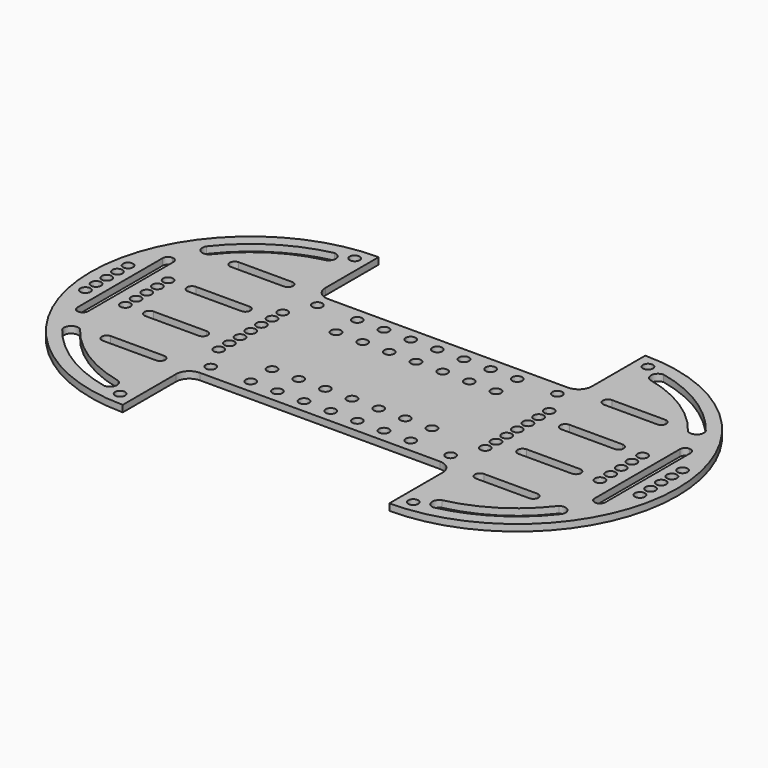
from build123d import *

# Parameters (mm, degrees)
F0_R     = 2.38125
F1_DEPTH = 3.175


with BuildPart() as f1:
    # F0 (on Top) → F1 (new body)
    with BuildSketch(Plane.XY):
        with BuildLine():
            Line((57.15, 38.1), (-57.15, 38.1))
            ThreePointArc((-57.15, 38.1), (-61.640128, 39.959872), (-63.5, 44.45))
            Line((-63.5, 44.45), (-63.5, 76.2))
            ThreePointArc((-63.5, 76.2), (-139.7, 0), (-63.5, -76.2))
            Line((-63.5, -76.2), (-63.5, -44.45))
            ThreePointArc((-63.5, -44.45), (-61.640128, -39.959872), (-57.15, -38.1))
            Line((-57.15, -38.1), (57.15, -38.1))
            ThreePointArc((57.15, -38.1), (61.640128, -39.959872), (63.5, -44.45))
            Line((63.5, -44.45), (63.5, -76.2))
            ThreePointArc((63.5, -76.2), (139.7, 0), (63.5, 76.2))
            Line((63.5, 76.2), (63.5, 44.45))
            ThreePointArc((63.5, 44.45), (61.640128, 39.959872), (57.15, 38.1))
        make_face()
        with BuildLine():
            ThreePointArc((-77.258712, -61.991514), (-75.139815, -65.751461), (-78.444508, -68.527416))
            ThreePointArc((-78.444508, -68.527416), (-100.955745, -59.299344), (-118.960174, -42.936164))
            ThreePointArc((-118.960174, -42.936164), (-118.331347, -38.677636), (-114.032447, -38.454151))
            ThreePointArc((-114.032447, -38.454151), (-97.732151, -53.482799), (-77.258712, -61.991514))
        make_face(mode=Mode.SUBTRACT)
        with Locations((-69.85, -69.85)):
            Circle(F0_R, mode=Mode.SUBTRACT)
        with BuildLine():
            Line((-101.6, -35.71875), (-76.2, -35.71875))
            ThreePointArc((-76.2, -35.71875), (-73.81875, -38.1), (-76.2, -40.48125))
            Line((-76.2, -40.48125), (-101.6, -40.48125))
            ThreePointArc((-101.6, -40.48125), (-103.98125, -38.1), (-101.6, -35.71875))
        make_face(mode=Mode.SUBTRACT)
        with Locations((-132.08, -12.7)):
            Circle(F0_R, mode=Mode.SUBTRACT)
        with Locations((-113.03, -12.7)):
            Circle(F0_R, mode=Mode.SUBTRACT)
        with Locations((-132.08, -6.35)):
            Circle(F0_R, mode=Mode.SUBTRACT)
        with Locations((-113.03, -6.35)):
            Circle(F0_R, mode=Mode.SUBTRACT)
        with BuildLine():
            ThreePointArc((-76.2, -10.31875), (-73.81875, -12.7), (-76.2, -15.08125))
            Line((-76.2, -15.08125), (-101.6, -15.08125))
            ThreePointArc((-101.6, -15.08125), (-103.98125, -12.7), (-101.6, -10.31875))
            Line((-101.6, -10.31875), (-76.2, -10.31875))
        make_face(mode=Mode.SUBTRACT)
        with Locations((-57.15, -31.75)):
            Circle(F0_R, mode=Mode.SUBTRACT)
        with Locations((-38.1, -31.75)):
            Circle(F0_R, mode=Mode.SUBTRACT)
        with Locations((-25.4, -31.75)):
            Circle(F0_R, mode=Mode.SUBTRACT)
        with Locations((-12.7, -31.75)):
            Circle(F0_R, mode=Mode.SUBTRACT)
        with Locations((-63.5, -19.05)):
            Circle(F0_R, mode=Mode.SUBTRACT)
        with Locations((-63.5, -12.7)):
            Circle(F0_R, mode=Mode.SUBTRACT)
        with Locations((-38.1, -19.05)):
            Circle(F0_R, mode=Mode.SUBTRACT)
        with Locations((-63.5, -6.35)):
            Circle(F0_R, mode=Mode.SUBTRACT)
        with Locations((-25.4, -19.05)):
            Circle(F0_R, mode=Mode.SUBTRACT)
        with Locations((-12.7, -19.05)):
            Circle(F0_R, mode=Mode.SUBTRACT)
        with Locations((69.85, -69.85)):
            Circle(F0_R, mode=Mode.SUBTRACT)
        with BuildLine():
            ThreePointArc((118.960174, -42.936164), (100.955745, -59.299344), (78.444508, -68.527416))
            ThreePointArc((78.444508, -68.527416), (75.139815, -65.751461), (77.258712, -61.991514))
            ThreePointArc((77.258712, -61.991514), (97.732151, -53.482799), (114.032447, -38.454151))
            ThreePointArc((114.032447, -38.454151), (118.331347, -38.677636), (118.960174, -42.936164))
        make_face(mode=Mode.SUBTRACT)
        with Locations((0, -31.75)):
            Circle(F0_R, mode=Mode.SUBTRACT)
        with Locations((12.7, -31.75)):
            Circle(F0_R, mode=Mode.SUBTRACT)
        with Locations((25.4, -31.75)):
            Circle(F0_R, mode=Mode.SUBTRACT)
        with Locations((38.1, -31.75)):
            Circle(F0_R, mode=Mode.SUBTRACT)
        with Locations((57.15, -31.75)):
            Circle(F0_R, mode=Mode.SUBTRACT)
        with Locations((0, -19.05)):
            Circle(F0_R, mode=Mode.SUBTRACT)
        with Locations((12.7, -19.05)):
            Circle(F0_R, mode=Mode.SUBTRACT)
        with Locations((25.4, -19.05)):
            Circle(F0_R, mode=Mode.SUBTRACT)
        with Locations((38.1, -19.05)):
            Circle(F0_R, mode=Mode.SUBTRACT)
        with Locations((63.5, -19.05)):
            Circle(F0_R, mode=Mode.SUBTRACT)
        with Locations((63.5, -12.7)):
            Circle(F0_R, mode=Mode.SUBTRACT)
        with Locations((63.5, -6.35)):
            Circle(F0_R, mode=Mode.SUBTRACT)
        with BuildLine():
            ThreePointArc((76.2, -40.48125), (73.81875, -38.1), (76.2, -35.71875))
            Line((76.2, -35.71875), (101.6, -35.71875))
            ThreePointArc((101.6, -35.71875), (103.98125, -38.1), (101.6, -40.48125))
            Line((101.6, -40.48125), (76.2, -40.48125))
        make_face(mode=Mode.SUBTRACT)
        with BuildLine():
            ThreePointArc((76.2, -15.08125), (73.81875, -12.7), (76.2, -10.31875))
            Line((76.2, -10.31875), (101.6, -10.31875))
            ThreePointArc((101.6, -10.31875), (103.98125, -12.7), (101.6, -15.08125))
            Line((101.6, -15.08125), (76.2, -15.08125))
        make_face(mode=Mode.SUBTRACT)
        with Locations((113.03, -12.7)):
            Circle(F0_R, mode=Mode.SUBTRACT)
        with Locations((132.08, -12.7)):
            Circle(F0_R, mode=Mode.SUBTRACT)
        with Locations((113.03, -6.35)):
            Circle(F0_R, mode=Mode.SUBTRACT)
        with Locations((132.08, -6.35)):
            Circle(F0_R, mode=Mode.SUBTRACT)
        with Locations((-132.08, 0)):
            Circle(F0_R, mode=Mode.SUBTRACT)
        with BuildLine():
            Line((-125.73, -25.4), (-125.73, 25.4))
            ThreePointArc((-125.73, 25.4), (-124.986051, 27.196051), (-123.19, 27.94))
            ThreePointArc((-123.19, 27.94), (-121.393949, 27.196051), (-120.65, 25.4))
            Line((-120.65, 25.4), (-120.65, -25.4))
            ThreePointArc((-120.65, -25.4), (-121.393949, -27.196051), (-123.19, -27.94))
            ThreePointArc((-123.19, -27.94), (-124.986051, -27.196051), (-125.73, -25.4))
        make_face(mode=Mode.SUBTRACT)
        with Locations((-132.08, 6.35)):
            Circle(F0_R, mode=Mode.SUBTRACT)
        with Locations((-113.03, 0)):
            Circle(F0_R, mode=Mode.SUBTRACT)
        with Locations((-113.03, 6.35)):
            Circle(F0_R, mode=Mode.SUBTRACT)
        with Locations((-132.08, 12.7)):
            Circle(F0_R, mode=Mode.SUBTRACT)
        with Locations((-113.03, 12.7)):
            Circle(F0_R, mode=Mode.SUBTRACT)
        with BuildLine():
            ThreePointArc((-101.6, 10.31875), (-103.98125, 12.7), (-101.6, 15.08125))
            Line((-101.6, 15.08125), (-76.2, 15.08125))
            ThreePointArc((-76.2, 15.08125), (-73.81875, 12.7), (-76.2, 10.31875))
            Line((-76.2, 10.31875), (-101.6, 10.31875))
        make_face(mode=Mode.SUBTRACT)
        with Locations((-63.5, 0)):
            Circle(F0_R, mode=Mode.SUBTRACT)
        with Locations((-63.5, 6.35)):
            Circle(F0_R, mode=Mode.SUBTRACT)
        with Locations((-63.5, 12.7)):
            Circle(F0_R, mode=Mode.SUBTRACT)
        with Locations((-63.5, 19.05)):
            Circle(F0_R, mode=Mode.SUBTRACT)
        with Locations((-38.1, 19.05)):
            Circle(F0_R, mode=Mode.SUBTRACT)
        with Locations((-57.15, 31.75)):
            Circle(F0_R, mode=Mode.SUBTRACT)
        with Locations((-38.1, 31.75)):
            Circle(F0_R, mode=Mode.SUBTRACT)
        with Locations((-25.4, 19.05)):
            Circle(F0_R, mode=Mode.SUBTRACT)
        with Locations((-12.7, 19.05)):
            Circle(F0_R, mode=Mode.SUBTRACT)
        with Locations((-25.4, 31.75)):
            Circle(F0_R, mode=Mode.SUBTRACT)
        with Locations((-12.7, 31.75)):
            Circle(F0_R, mode=Mode.SUBTRACT)
        with BuildLine():
            Line((-101.6, 40.48125), (-76.2, 40.48125))
            ThreePointArc((-76.2, 40.48125), (-73.81875, 38.1), (-76.2, 35.71875))
            Line((-76.2, 35.71875), (-101.6, 35.71875))
            ThreePointArc((-101.6, 35.71875), (-103.98125, 38.1), (-101.6, 40.48125))
        make_face(mode=Mode.SUBTRACT)
        with BuildLine():
            ThreePointArc((-118.960174, 42.936164), (-100.955745, 59.299344), (-78.444508, 68.527416))
            ThreePointArc((-78.444508, 68.527416), (-75.139815, 65.751461), (-77.258712, 61.991514))
            ThreePointArc((-77.258712, 61.991514), (-97.732151, 53.482799), (-114.032447, 38.454151))
            ThreePointArc((-114.032447, 38.454151), (-118.331347, 38.677636), (-118.960174, 42.936164))
        make_face(mode=Mode.SUBTRACT)
        with Locations((-69.85, 69.85)):
            Circle(F0_R, mode=Mode.SUBTRACT)
        with Locations((63.5, 0)):
            Circle(F0_R, mode=Mode.SUBTRACT)
        with Locations((63.5, 6.35)):
            Circle(F0_R, mode=Mode.SUBTRACT)
        with Locations((63.5, 12.7)):
            Circle(F0_R, mode=Mode.SUBTRACT)
        with Locations((0, 19.05)):
            Circle(F0_R, mode=Mode.SUBTRACT)
        with Locations((12.7, 19.05)):
            Circle(F0_R, mode=Mode.SUBTRACT)
        with Locations((25.4, 19.05)):
            Circle(F0_R, mode=Mode.SUBTRACT)
        with Locations((0, 31.75)):
            Circle(F0_R, mode=Mode.SUBTRACT)
        with Locations((12.7, 31.75)):
            Circle(F0_R, mode=Mode.SUBTRACT)
        with Locations((25.4, 31.75)):
            Circle(F0_R, mode=Mode.SUBTRACT)
        with Locations((38.1, 19.05)):
            Circle(F0_R, mode=Mode.SUBTRACT)
        with Locations((63.5, 19.05)):
            Circle(F0_R, mode=Mode.SUBTRACT)
        with Locations((38.1, 31.75)):
            Circle(F0_R, mode=Mode.SUBTRACT)
        with Locations((57.15, 31.75)):
            Circle(F0_R, mode=Mode.SUBTRACT)
        with BuildLine():
            ThreePointArc((76.2, 10.31875), (73.81875, 12.7), (76.2, 15.08125))
            Line((76.2, 15.08125), (101.6, 15.08125))
            ThreePointArc((101.6, 15.08125), (103.98125, 12.7), (101.6, 10.31875))
            Line((101.6, 10.31875), (76.2, 10.31875))
        make_face(mode=Mode.SUBTRACT)
        with Locations((113.03, 0)):
            Circle(F0_R, mode=Mode.SUBTRACT)
        with Locations((113.03, 6.35)):
            Circle(F0_R, mode=Mode.SUBTRACT)
        with BuildLine():
            ThreePointArc((120.65, 25.4), (121.393949, 27.196051), (123.19, 27.94))
            ThreePointArc((123.19, 27.94), (124.986051, 27.196051), (125.73, 25.4))
            Line((125.73, 25.4), (125.73, -25.4))
            ThreePointArc((125.73, -25.4), (124.986051, -27.196051), (123.19, -27.94))
            ThreePointArc((123.19, -27.94), (121.393949, -27.196051), (120.65, -25.4))
            Line((120.65, -25.4), (120.65, 25.4))
        make_face(mode=Mode.SUBTRACT)
        with Locations((132.08, 0)):
            Circle(F0_R, mode=Mode.SUBTRACT)
        with Locations((132.08, 6.35)):
            Circle(F0_R, mode=Mode.SUBTRACT)
        with Locations((113.03, 12.7)):
            Circle(F0_R, mode=Mode.SUBTRACT)
        with Locations((132.08, 12.7)):
            Circle(F0_R, mode=Mode.SUBTRACT)
        with BuildLine():
            ThreePointArc((76.2, 35.71875), (73.81875, 38.1), (76.2, 40.48125))
            Line((76.2, 40.48125), (101.6, 40.48125))
            ThreePointArc((101.6, 40.48125), (103.98125, 38.1), (101.6, 35.71875))
            Line((101.6, 35.71875), (76.2, 35.71875))
        make_face(mode=Mode.SUBTRACT)
        with BuildLine():
            ThreePointArc((118.960174, 42.936164), (118.331347, 38.677636), (114.032447, 38.454151))
            ThreePointArc((114.032447, 38.454151), (97.732151, 53.482799), (77.258712, 61.991514))
            ThreePointArc((77.258712, 61.991514), (75.139815, 65.751461), (78.444508, 68.527416))
            ThreePointArc((78.444508, 68.527416), (100.955745, 59.299344), (118.960174, 42.936164))
        make_face(mode=Mode.SUBTRACT)
        with Locations((69.85, 69.85)):
            Circle(F0_R, mode=Mode.SUBTRACT)
    extrude(amount=F1_DEPTH)


solid = f1.part
